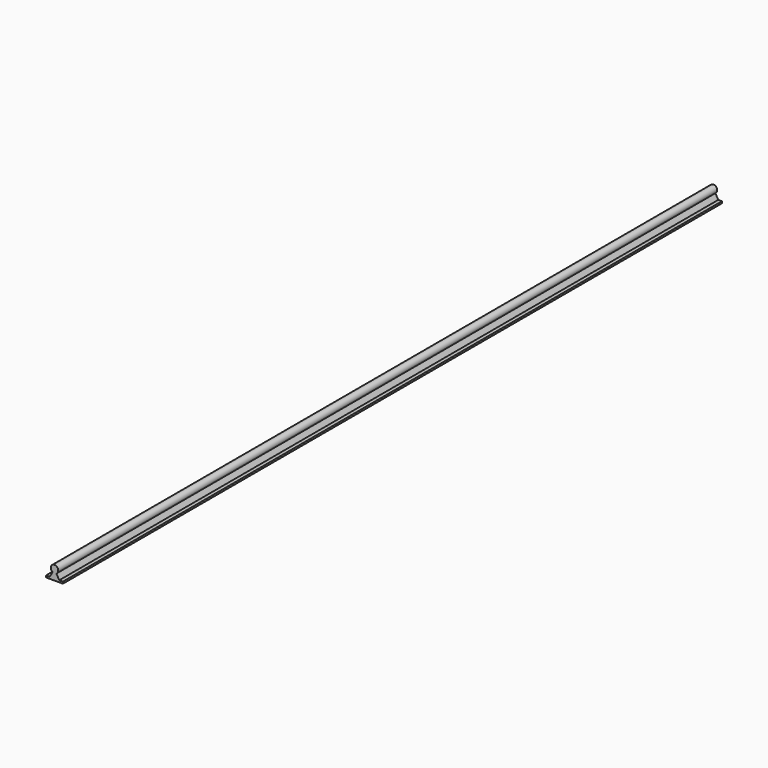
from build123d import *

# Parameters (mm, degrees)
PAD_DEPTH = 2200


with BuildPart() as part:
    # Sketch → Pad (new body)
    with BuildSketch(Plane.XZ):
        with BuildLine():
            ThreePointArc((5.001278, -8.659516), (-0.001476, 10), (-4.998722, -8.660992))
            Line((-4.998722, -8.660992), (-12.7, -22))
            Line((-22.5, -22), (-12.7, -22))
            Line((-22.5, -27), (-22.5, -22))
            Line((-22.5, -27), (22.5, -27))
            Line((22.5, -27), (22.5, -22))
            Line((12.703402, -22), (22.5, -22))
            Line((5.001278, -8.659516), (12.703402, -22))
        make_face()
    extrude(amount=PAD_DEPTH)


solid = part.part
